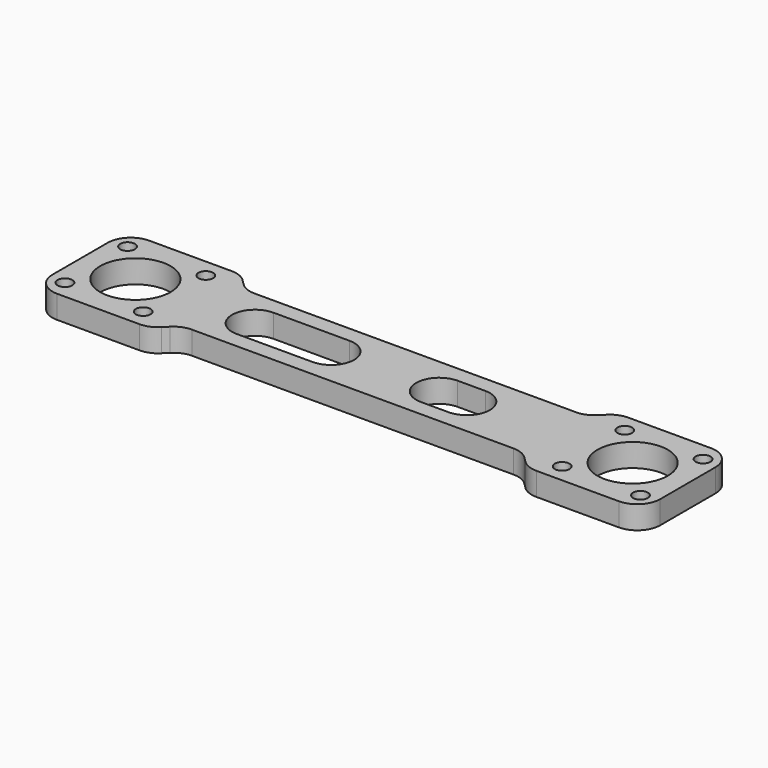
from build123d import *

# Parameters (mm, degrees)
SKETCH_R    = 7.65
SKETCH_R_2  = 1.6
PAD_DEPTH   = 5
FILLET_R    = 5
FILLET001_R = 5
FILLET002_R = 5


with BuildPart() as part:
    # Sketch → Pad (new body)
    with BuildSketch(Plane.XY):
        Polygon((66, 12.5), (66, -12.5), (41, -12.5), (37, -8.5), (-37, -8.5), (-41, -12.5), (-66, -12.5), (-66, 12.5), (-41, 12.5), (-37, 8.5), (37, 8.5), (41, 12.5), align=None)
        with Locations((54, 0)):
            Circle(SKETCH_R, mode=Mode.SUBTRACT)
        with Locations((45.5, 8.5)):
            Circle(SKETCH_R_2, mode=Mode.SUBTRACT)
        with Locations((62.5, 8.5)):
            Circle(SKETCH_R_2, mode=Mode.SUBTRACT)
        with Locations((62.5, -8.5)):
            Circle(SKETCH_R_2, mode=Mode.SUBTRACT)
        with Locations((45.5, -8.5)):
            Circle(SKETCH_R_2, mode=Mode.SUBTRACT)
        with Locations((-54, 0)):
            Circle(SKETCH_R, mode=Mode.SUBTRACT)
        with Locations((-45.5, 8.5)):
            Circle(SKETCH_R_2, mode=Mode.SUBTRACT)
        with Locations((-62.5, 8.5)):
            Circle(SKETCH_R_2, mode=Mode.SUBTRACT)
        with Locations((-62.5, -8.5)):
            Circle(SKETCH_R_2, mode=Mode.SUBTRACT)
        with Locations((-45.5, -8.5)):
            Circle(SKETCH_R_2, mode=Mode.SUBTRACT)
        with BuildLine():
            ThreePointArc((-28, 5), (-33, 0), (-28, -5))
            Line((-11.5, -5), (-28, -5))
            ThreePointArc((-11.5, -5), (-6.5, 0), (-11.5, 5))
            Line((-28, 5), (-11.5, 5))
        make_face(mode=Mode.SUBTRACT)
        with BuildLine():
            ThreePointArc((18, -5), (23, 0), (18, 5))
            Line((18, 5), (12, 5))
            ThreePointArc((12, 5), (7, 0), (12, -5))
            Line((18, -5), (12, -5))
        make_face(mode=Mode.SUBTRACT)
    extrude(amount=PAD_DEPTH)

    # Fillet
    fillet_edges = [part.edges().sort_by_distance(p)[0] for p in [
        (66, -12.5, 2.5),
        (66, 12.5, 2.5),
        (-66, -12.5, 2.5),
        (-66, 12.5, 2.5),
    ]]
    fillet(fillet_edges, radius=FILLET_R)

    # Fillet001
    fillet001_edges = [part.edges().sort_by_distance(p)[0] for p in [
        (-41, -12.5, 2.5),
        (-37, -8.5, 2.5),
        (37, -8.5, 2.5),
        (41, -12.5, 2.5),
    ]]
    fillet(fillet001_edges, radius=FILLET001_R)

    # Fillet002
    fillet002_edges = [part.edges().sort_by_distance(p)[0] for p in [
        (41, 12.5, 2.5),
        (37, 8.5, 2.5),
        (-41, 12.5, 2.5),
        (-37, 8.5, 2.5),
    ]]
    fillet(fillet002_edges, radius=FILLET002_R)


solid = part.part
